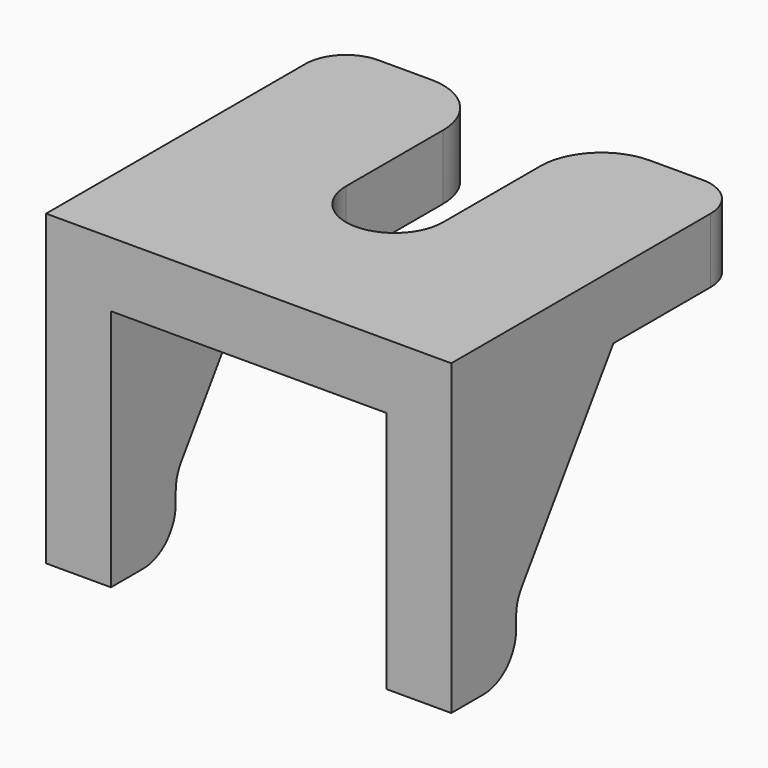
from build123d import *

# Parameters (mm, degrees)
PAD004_DEPTH            = 1.6
PAD005_DEPTH            = 1.6
LINEARPATTERN001_COUNT  = 2
LINEARPATTERN001_PITCH  = 8.4
FILLET004_R             = 1
FILLET005_R             = 1
FILLET006_R             = 1
FILLET007_R             = 1.5
BODY002_PLACEMENT_ANGLE = 90


with BuildPart() as part:
    # Sketch006 → Pad004 (new body)
    with BuildSketch(Plane.XY):
        with BuildLine():
            Line((-4.5, 5), (4.5, 5))
            Line((4.5, 5), (4.5, 1.2))
            Line((0, 1.2), (4.5, 1.2))
            ThreePointArc((0, 1.2), (-1.2, 0), (0, -1.2))
            Line((4.5, -1.2), (0, -1.2))
            Line((4.5, -1.2), (4.5, -5))
            Line((4.5, -5), (-4.5, -5))
            Line((-4.5, -5), (-4.5, 5))
        make_face()
    extrude(amount=PAD004_DEPTH)

    # Sketch007 (on DatumPlane) → Pad005 (join)
    with BuildSketch(Plane.XZ.offset(5)):
        Polygon((-4.5, 0), (-4.5, -6), (-2.5, -6), (-2.5, -4.4), (0.5, 0), align=None)
    pad005 = extrude(amount=-PAD005_DEPTH)

    # LinearPattern001: Pad005 ×2
    with Locations(*[(0, i * LINEARPATTERN001_PITCH, 0) for i in range(1, LINEARPATTERN001_COUNT)]):
        add(pad005)

    # Fillet004
    fillet004_edges = [part.edges().sort_by_distance(p)[0] for p in [
        (-2.5, -4.2, -6),
        (-2.5, 4.2, -6),
    ]]
    fillet(fillet004_edges, radius=FILLET004_R)

    # Fillet005
    fillet005_edges = [part.edges().sort_by_distance(p)[0] for p in [
        (-2.5, -4.2, -4.4),
        (-2.5, 4.2, -4.4),
    ]]
    fillet(fillet005_edges, radius=FILLET005_R)

    # Fillet006
    fillet006_edges = [part.edges().sort_by_distance(p)[0] for p in [
        (4.5, -5, 0.8),
        (4.5, 5, 0.8),
    ]]
    fillet(fillet006_edges, radius=FILLET006_R)

    # Fillet007
    fillet007_edges = [part.edges().sort_by_distance(p)[0] for p in [
        (4.5, -1.2, 0.8),
        (4.5, 1.2, 0.8),
    ]]
    fillet(fillet007_edges, radius=FILLET007_R)


with BuildPart() as part_1:
    # Body002 placement: moved
    add(part.part.moved(Location((22.4, 32.5, 16.4))).rotate(Axis((22.4, 32.5, 16.4), (0, 0, 1)), BODY002_PLACEMENT_ANGLE))


solid = part_1.part
